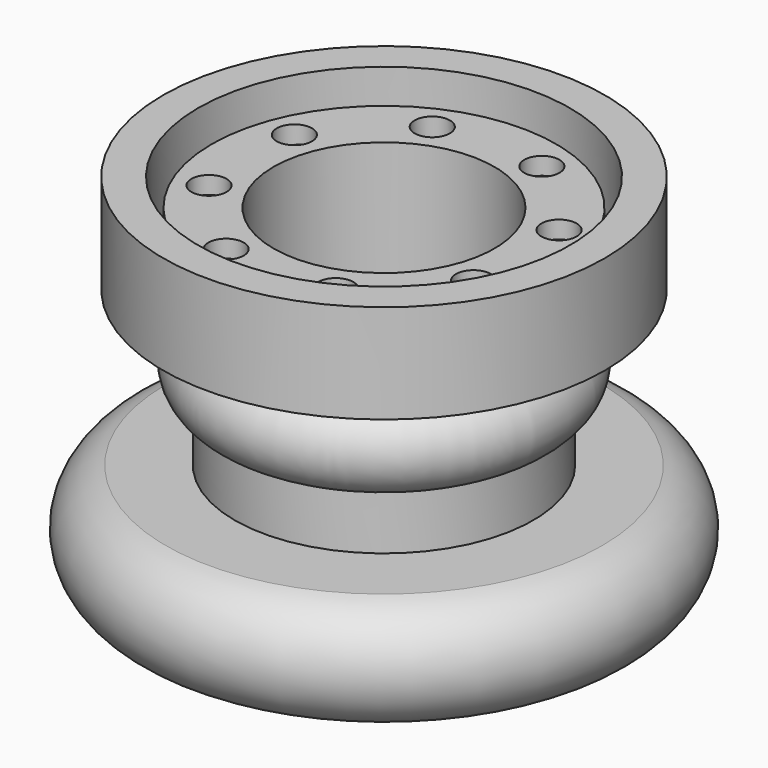
from build123d import *

# Parameters (mm, degrees)
F0_R     = 10.809618
F2_R     = 5.863604
F3_DEPTH = 48


with BuildPart() as f1:
    # F0 (on Front) → F1 (revolve)
    with BuildSketch(Plane.XZ):
        with BuildLine():
            Line((0, -34.022179), (-2.993953, -34.022179))
            Line((-2.993953, -34.022179), (-17.510081, -34.022179))
            Line((-17.510081, -34.022179), (-17.510081, -9.344758))
            Line((-17.510081, -9.344758), (-24.405243, -9.344758))
            Line((-24.405243, -9.344758), (-24.405243, 42.913307))
            Line((-24.405243, 42.913307), (-44.909276, 42.913307))
            Line((-44.909276, 42.913307), (-44.909276, 27.308468))
            Line((-44.909276, 27.308468), (-49.445566, 27.308468))
            Line((-49.445566, 27.308468), (-49.445566, 51.98589))
            Line((-49.445566, 51.98589), (-61.058469, 51.98589))
            Line((-61.058469, 51.98589), (-61.058469, 19.143146))
            Line((-61.058469, 19.143146), (-40.010083, 19.143146))
            Line((-40.010083, 19.143146), (-40.010083, 37.106857))
            Line((-40.010083, 37.106857), (-30.9375, 37.106857))
            Line((-30.9375, 37.106857), (-30.9375, 12.247985))
            Line((-30.9375, 12.247985), (-37.288308, 12.247985))
            ThreePointArc((-37.288308, 12.247985), (-46.413915, -1.088709), (-37.288308, -14.425403))
            Line((-37.288308, -14.425403), (-37.288308, -32.389116))
            Line((-37.288308, -32.389116), (-60.151212, -32.389116))
            ThreePointArc((-60.151212, -32.389116), (-74.385311, -50.806453), (-60.151212, -69.223791))
            Line((-60.151212, -69.223791), (0, -69.223791))
            Line((0, -69.223791), (0, -34.022179))
        make_face()
        with Locations((-55.35327, -50.806453)):
            Circle(F0_R, mode=Mode.SUBTRACT)
    revolve(axis=Axis((12.3135, 0, -33.01385), (0, 0, 1)))

    # F2 (on face) → F3 (cut)
    with BuildSketch(Plane.XY.offset(42.913307)):
        with Locations((-6.270647, 43.273252)):
            Circle(F2_R)
        with Locations((29.771333, 43.739786)):
            Circle(F2_R)
        with Locations((55.586752, 18.584147)):
            Circle(F2_R)
        with Locations((56.053286, -17.457833)):
            Circle(F2_R)
        with Locations((30.897647, -43.273252)):
            Circle(F2_R)
        with Locations((-5.144333, -43.739786)):
            Circle(F2_R)
        with Locations((-30.959751, -18.584147)):
            Circle(F2_R)
        with Locations((-31.426286, 17.457833)):
            Circle(F2_R)
    extrude(amount=-F3_DEPTH, mode=Mode.SUBTRACT)


solid = f1.part
